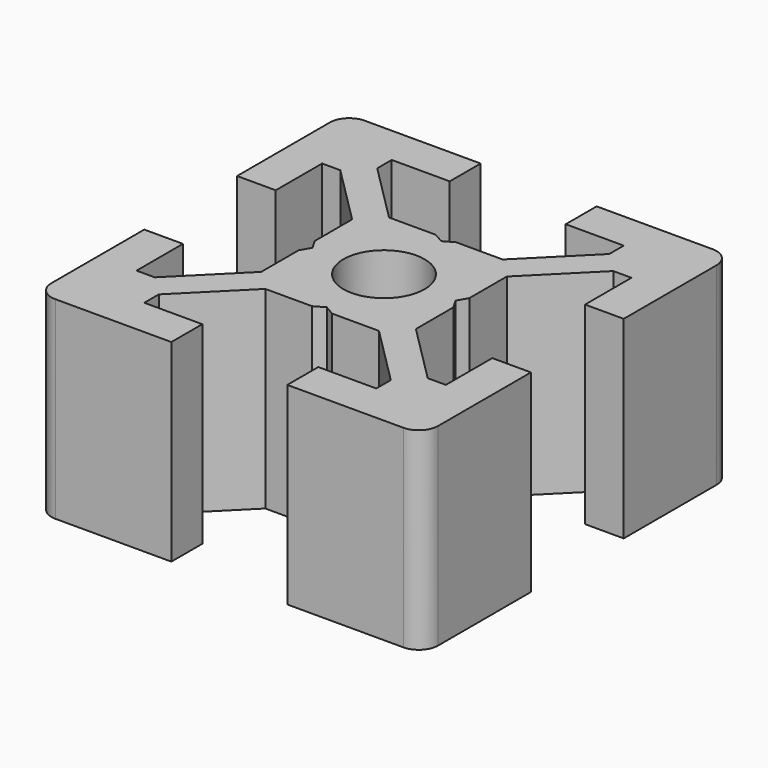
from build123d import *

# Parameters (mm, degrees)
F0_R     = 2.1
F1_DEPTH = 10


with BuildPart() as f1:
    # F0 (on Top) → F1 (new body)
    with BuildSketch(Plane.XY):
        with BuildLine():
            Line((-8, -6), (-8, -3))
            Line((-8, -3), (-10, -3))
            Line((-10, -3), (-10, -9))
            ThreePointArc((-10, -9), (-9.707107, -9.707107), (-9, -10))
            Line((-9, -10), (-3, -10))
            Line((-3, -10), (-3, -8))
            Line((-3, -8), (-6, -8))
            Line((-6, -8), (-6, -7.06066))
            Line((-6, -7.06066), (-2.93934, -4))
            Line((-2.93934, -4), (-0.519615, -4))
            Line((-0.519615, -4), (0, -3.7))
            Line((0, -3.7), (0.519615, -4))
            Line((0.519615, -4), (2.93934, -4))
            Line((2.93934, -4), (6, -7.06066))
            Line((6, -7.06066), (6, -8))
            Line((6, -8), (3, -8))
            Line((3, -8), (3, -10))
            Line((3, -10), (9, -10))
            ThreePointArc((9, -10), (9.707107, -9.707107), (10, -9))
            Line((10, -9), (10, -3))
            Line((10, -3), (8, -3))
            Line((8, -3), (8, -6))
            Line((8, -6), (7.06066, -6))
            Line((7.06066, -6), (4, -2.93934))
            Line((4, -2.93934), (4, -0.519615))
            Line((4, -0.519615), (3.7, 0))
            Line((3.7, 0), (4, 0.519615))
            Line((4, 0.519615), (4, 2.93934))
            Line((4, 2.93934), (7.06066, 6))
            Line((7.06066, 6), (8, 6))
            Line((8, 6), (8, 3))
            Line((8, 3), (10, 3))
            Line((10, 3), (10, 9))
            ThreePointArc((10, 9), (9.707107, 9.707107), (9, 10))
            Line((9, 10), (3, 10))
            Line((3, 10), (3, 8))
            Line((3, 8), (6, 8))
            Line((6, 8), (6, 7.06066))
            Line((6, 7.06066), (2.93934, 4))
            Line((2.93934, 4), (0.519615, 4))
            Line((0.519615, 4), (0, 3.7))
            Line((0, 3.7), (-0.519615, 4))
            Line((-0.519615, 4), (-2.93934, 4))
            Line((-2.93934, 4), (-6, 7.06066))
            Line((-6, 7.06066), (-6, 8))
            Line((-6, 8), (-3, 8))
            Line((-3, 8), (-3, 10))
            Line((-3, 10), (-9, 10))
            ThreePointArc((-9, 10), (-9.707107, 9.707107), (-10, 9))
            Line((-10, 9), (-10, 3))
            Line((-10, 3), (-8, 3))
            Line((-8, 3), (-8, 6))
            Line((-8, 6), (-7.06066, 6))
            Line((-7.06066, 6), (-4, 2.93934))
            Line((-4, 2.93934), (-4, 0.519615))
            Line((-4, 0.519615), (-3.7, 0))
            Line((-3.7, 0), (-4, -0.519615))
            Line((-4, -0.519615), (-4, -2.93934))
            Line((-4, -2.93934), (-7.06066, -6))
            Line((-7.06066, -6), (-8, -6))
        make_face()
        Circle(F0_R, mode=Mode.SUBTRACT)
    extrude(amount=F1_DEPTH)


solid = f1.part
